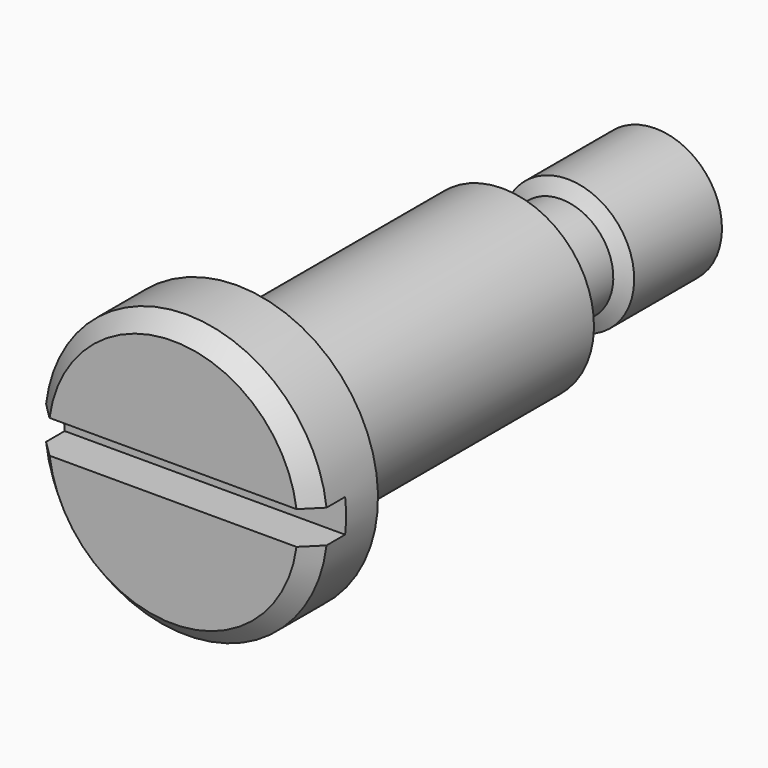
from build123d import *

# Parameters (mm, degrees)
SKETCH001_W  = 1
SKETCH001_H  = 8.5
POCKET_DEPTH = 1.2


with BuildPart() as part:
    # Sketch → Revolution (revolve)
    with BuildSketch(Plane.YZ):
        Polygon((0, 0), (0, 3.75), (0.5, 4.25), (2.4, 4.25), (2.4, 2.75), (12.4, 2.75), (12.4, 1.57), (14.601739, 1.57), (14.85, 2), (18.151739, 2), (18.4, 1.57), (18.4, 0), align=None)
    revolve(axis=Axis((0, 0, 0), (0, 1, 0)))

    # Sketch001 → Pocket (cut)
    with BuildSketch(Plane(origin=(0, 0, 0), x_dir=(0, 0, -1), z_dir=(0, -1, 0))):
        Rectangle(SKETCH001_W, SKETCH001_H)
    extrude(amount=-POCKET_DEPTH, mode=Mode.SUBTRACT)


solid = part.part
